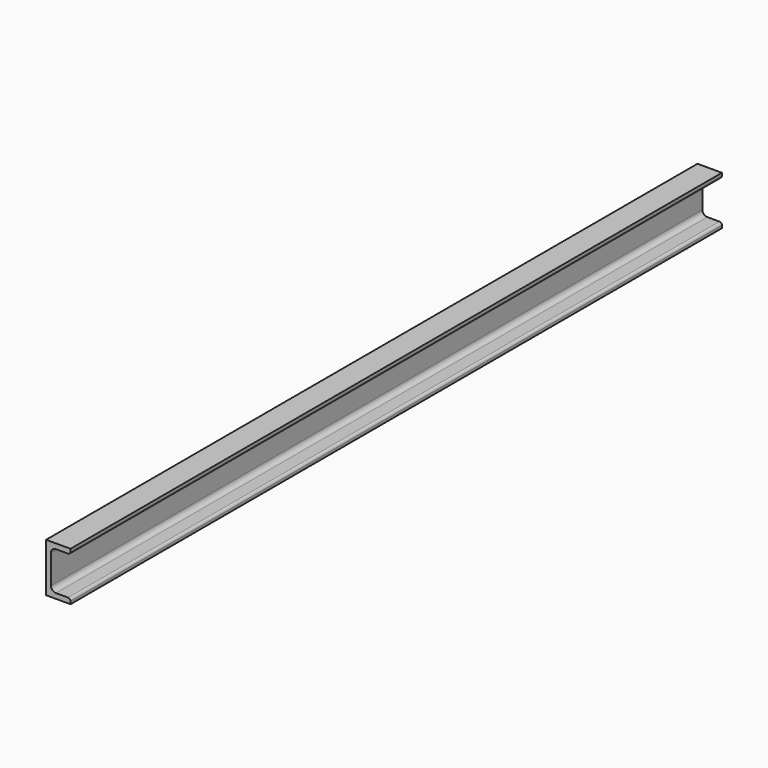
from build123d import *

# Parameters (mm, degrees)
F1_DEPTH = 500


with BuildPart() as f1:
    # F0 (on Front) → F1 (new body, symmetric)
    with BuildSketch(Plane.XZ):
        with BuildLine():
            Line((0, 60), (0, 0))
            Line((0, 0), (30, 0))
            Line((30, 0), (30, 3.25))
            ThreePointArc((30, 3.25), (29.12132, 5.37132), (27, 6.25))
            Line((27, 6.25), (12, 6.25))
            ThreePointArc((12, 6.25), (7.757359, 8.007359), (6, 12.25))
            Line((6, 12.25), (6, 47.75))
            ThreePointArc((6, 47.75), (7.757359, 51.992641), (12, 53.75))
            Line((12, 53.75), (27, 53.75))
            ThreePointArc((27, 53.75), (29.12132, 54.62868), (30, 56.75))
            Line((30, 56.75), (30, 60))
            Line((30, 60), (0, 60))
        make_face()
    extrude(amount=F1_DEPTH, both=True)


solid = f1.part
